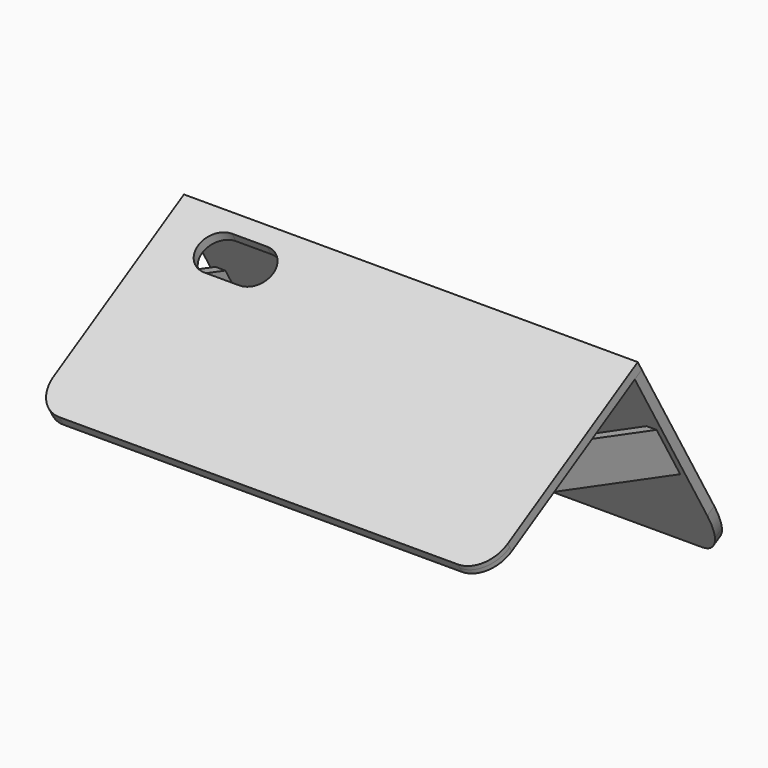
from build123d import *

# Parameters (mm, degrees)
EXTRUDE012_DEPTH                          = 2
EXTRUDE013_DEPTH                          = 2
EXTRUDE014_DEPTH                          = 2
EXTRUDE011_DEPTH                          = 1
EXTRUDE011_ONTO_SKETCH012_PLACEMENT_ANGLE = 210


with BuildPart() as extrude012:
    # Facebinder001 → Extrude012 (new body)
    with BuildSketch(Plane(origin=(0, 18.8977675755, 30.9501387124), x_dir=(-1, 0, 0), z_dir=(0, -0.8660254038, -0.5))):
        with BuildLine():
            Line((-45.25, 13.204464849), (-45.25, -23.9452774122))
            Line((-45.25, -23.9452774122), (45.25, -23.9452774122))
            Line((45.25, -23.9452774122), (45.25, 13.2044648491))
            add(Edge.make_bspline(
                [(44.2347028524, 19.5723342968), (45.25, 16.7121588166), (45.25, 13.2044648491)],
                knots=[0.953420723, 0.953420723, 0.953420723, 1.5707963268, 1.5707963268, 1.5707963268], degree=2, weights=[1, 0.9527330472, 1]))
            add(Edge.make_bspline(
                [(39.75, 24.204464849), (42.590402015, 24.204464849), (44.2347028524, 19.5723342968)],
                knots=[0, 0, 0, 0.953420723, 0.953420723, 0.953420723], degree=2, weights=[1, 0.8885092072, 1]))
            Line((39.75, 24.204464849), (-39.75, 24.204464849))
            add(Edge.make_bspline(
                [(-44.2347028524, 19.5723342968), (-42.590402015, 24.204464849), (-39.75, 24.204464849)],
                knots=[5.3297645842, 5.3297645842, 5.3297645842, 6.2831853072, 6.2831853072, 6.2831853072], degree=2, weights=[1, 0.8885092072, 1]))
            add(Edge.make_bspline(
                [(-45.25, 13.204464849), (-45.25, 16.7121588165), (-44.2347028524, 19.5723342968)],
                knots=[4.7123889804, 4.7123889804, 4.7123889804, 5.3297645842, 5.3297645842, 5.3297645842], degree=2, weights=[1, 0.9527330472, 1]))
        make_face()
    extrude(amount=EXTRUDE012_DEPTH)


with BuildPart() as extrude013:
    # Sketch013 → Extrude013 (new body)
    with BuildSketch(Plane.YZ.offset(44)):
        Polygon((-15.020984158, 37.8620624495), (18.5712846291, 27.5156237634), (12.6930780618, 37.6969761952), (-5.5661322003, 43.3208237725), align=None)
    extrude(amount=-EXTRUDE013_DEPTH)


with BuildPart() as extrude014:
    # Sketch013 → Extrude014 (new body)
    with BuildSketch(Plane.YZ.offset(44)):
        Polygon((-15.020984158, 37.8620624495), (18.5712846291, 27.5156237634), (12.6930780618, 37.6969761952), (-5.5661322003, 43.3208237725), align=None)
    extrude(amount=EXTRUDE014_DEPTH)


with BuildPart() as extrude014_1:
    # Extrude014 placement: moved
    add(extrude014.part.moved(Location((-88, 0, 0))))


with BuildPart() as connect003:
    # Sketch012 as drawn → Extrude011 (new, symmetric)
    with BuildSketch(Plane.XY):
        with BuildLine():
            add(Edge.make_bspline(
                [(-39.7453392309, 11.9568462189), (-45.2533288617, 11.9676394264), (-45.25, 5.6081389921)],
                knots=[6.2710703316, 6.2710703316, 6.2710703316, 7.8406972721, 7.8406972721, 7.8406972721], degree=2, weights=[1, 0.7075201008, 1]))
            Line((-45.25, 5.6081389921), (-45.25, -31.84))
            Line((-45.25, -31.84), (45.2563247467, -31.84))
            Line((45.2563247467, -31.84), (45.2563247467, 5.6002976112))
            add(Edge.make_bspline(
                [(45.2563247467, 5.6002976112), (45.2564552158, 11.9567126485), (39.75, 11.9568462189)],
                knots=[4.7124493405, 4.7124493405, 4.7124493405, 6.2832273717, 6.2832273717, 6.2832273717], degree=2, weights=[1, 0.7071132496, 1]))
            Line((39.75, 11.9568462189), (-39.7453392309, 11.9568462189))
        make_face()
        with BuildLine():
            ThreePointArc((-26.25, -28.34), (-22.25, -24.34), (-26.25, -20.34))
            Line((-26.25, -20.34), (-33.25, -20.34))
            ThreePointArc((-33.25, -20.34), (-37.25, -24.34), (-33.25, -28.34))
            Line((-33.25, -28.34), (-26.25, -28.34))
        make_face(mode=Mode.SUBTRACT)
    extrude(amount=EXTRUDE011_DEPTH, both=True)


with BuildPart() as connect003_1:
    # Extrude011 onto Sketch012 placement: moved
    add(connect003.part.moved(Location((0, -20.65, 35.7668491763))).rotate(Axis((0, -20.65, 35.7668491763), (1, 0, 0)), EXTRUDE011_ONTO_SKETCH012_PLACEMENT_ANGLE))

    # Connect003: union Extrude012, Extrude013, Extrude014
    add(extrude012.part)
    add(extrude013.part)
    add(extrude014_1.part)


solid = connect003_1.part
